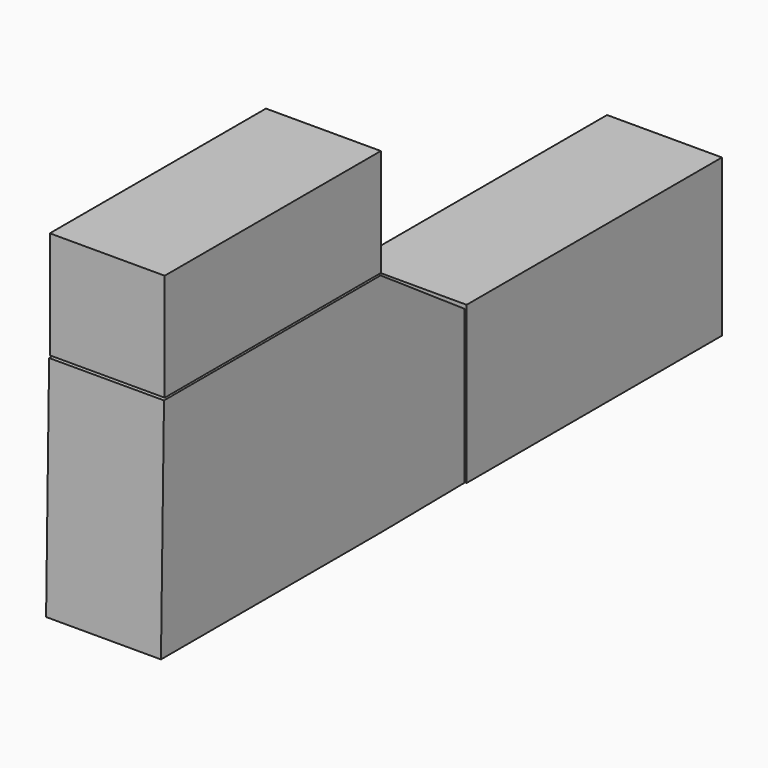
from build123d import *

# Parameters (mm, degrees)
F1_W     = 59.733614
F1_H     = 23.749508
F0_W     = 70.563414
F0_H     = 34.69342
F2_DEPTH = 25.4


with BuildPart() as f2:
    # F1 (on face) + F0 (on Right) → F2 (new body)
    with BuildSketch(Plane.YZ):
        with Locations((-88.863447, 45.054469)):
            Rectangle(F1_W, F1_H)
        Polygon((-89.197626, 7.86755), (-59.055462, 32.731365), (-118.923075, 32.731365), align=None)
        Polygon((-119.762346, -17.344825), (-89.197626, 7.86755), (-118.923075, 32.731365), align=None)
        Polygon((-119.762346, -17.344825), (-59.055462, -17.344825), (-89.197626, 7.86755), align=None)
        Polygon((-59.055462, -17.344825), (-59.055462, 32.731365), (-89.197626, 7.86755), align=None)
        Polygon((-35.835776, 16.785316), (-59.055462, 32.731365), (-59.055462, -17.344825), align=None)
        Polygon((-35.835776, 16.785316), (-59.055462, -17.344825), (-35.835776, -17.065071), align=None)
    with BuildSketch(Plane.YZ):
        Rectangle(F0_W, F0_H)
    extrude(amount=F2_DEPTH)


solid = f2.part
